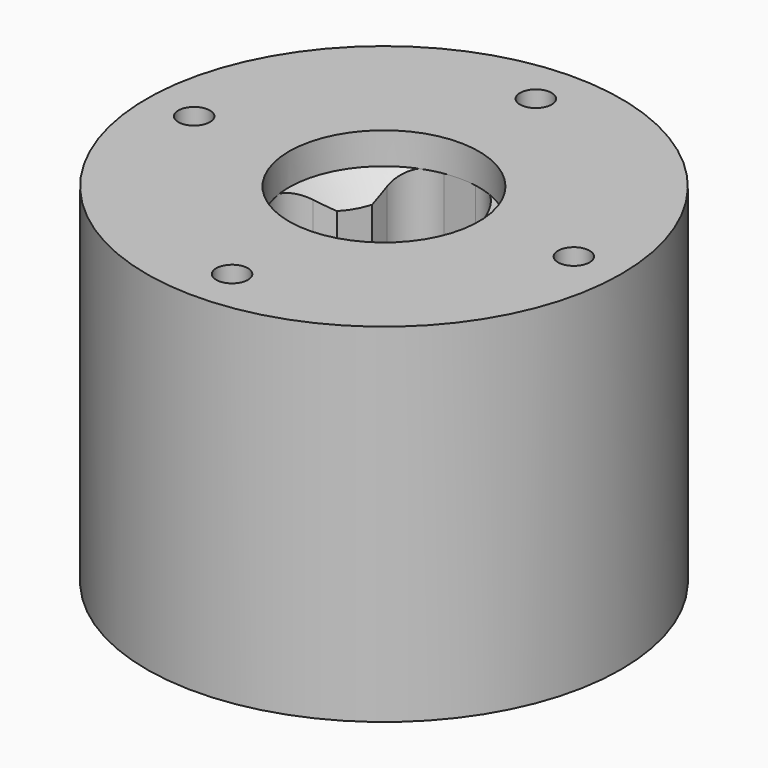
from build123d import *

# Parameters (mm, degrees)
F0_W      = 3
F0_H      = 5
F1_DEPTH  = 10
F2_R      = 1
F4_COUNT  = 3
F4_ANGLE  = 240
F5_R      = 7.5
F6_DEPTH  = 11
F9_D      = 1
F9_DEPTH  = 1
F9_TIP    = 0.3004303095
F10_D     = 6
F10_DEPTH = 1
F10_TIP   = 1.8025818571


with BuildPart() as f1:
    # F0 (on Top) → F1 (new body)
    with BuildSketch(Plane.XY):
        with Locations((0, 0.5)):
            Rectangle(F0_W, F0_H)
    extrude(amount=F1_DEPTH)

    # F2
    f2_edges = [f1.edges().sort_by_distance(p)[0] for p in [
        (-1.5, 3, 5),
        (1.5, 3, 5),
    ]]
    fillet(f2_edges, radius=F2_R)

    # F4: F1 ×3 about axis
    f4_axis = Axis((0, 0, 4.9742138945), (0, 0, -1))


with BuildPart() as f1_1:
    add(f1.part)
    for i in range(1, F4_COUNT):
        add(f1.part.rotate(f4_axis, i * F4_ANGLE / (F4_COUNT - 1)))


with BuildPart() as f6:
    # F5 (on Top) → F6 (new body)
    with BuildSketch(Plane.XY):
        Circle(F5_R)
    extrude(amount=F6_DEPTH)

    # F7: cut F1
    add(f1_1.part, mode=Mode.SUBTRACT)

    # F9
    with Locations(Plane.XY.offset(11)):
        with Locations((-6, 0), (6, 0), (0, 6), (0, -6)):
            Hole(F9_D / 2, depth=F9_DEPTH)
            with Locations((0, 0, -(F9_DEPTH + F9_TIP / 2))):  # 118° drill point
                Cone(0, F9_D / 2, F9_TIP, mode=Mode.SUBTRACT)

    # F10
    with Locations(Plane.XY.offset(11)):
        with Locations((0, 0)):
            Hole(F10_D / 2, depth=F10_DEPTH)
            with Locations((0, 0, -(F10_DEPTH + F10_TIP / 2))):  # 118° drill point
                Cone(0, F10_D / 2, F10_TIP, mode=Mode.SUBTRACT)


solid = f6.part
